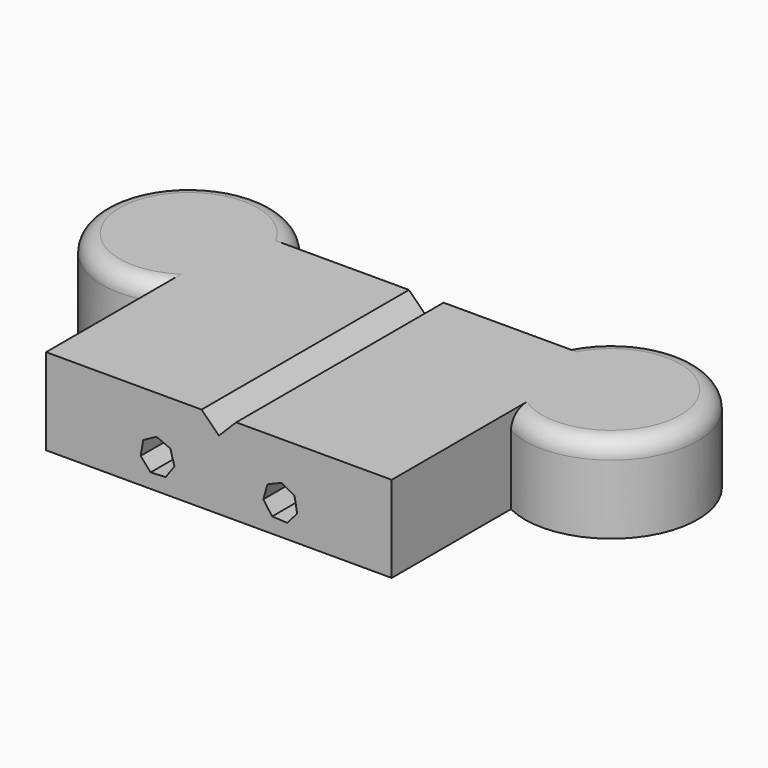
from build123d import *

# Parameters (mm, degrees)
F1_DEPTH = 25.4
F3_DEPTH = 76.2
F4_SIZE  = 5.08
F5_R     = 5.08


with BuildPart() as f1:
    # F0 (on Top) → F1 (new body)
    with BuildSketch(Plane.XY):
        with BuildLine():
            Line((-29.263646, -2.026047), (-29.263646, -45.816111))
            Line((-29.263646, -45.816111), (21.536354, -45.816111))
            Line((21.536354, -45.816111), (21.536354, 30.383889))
            Line((21.536354, 30.383889), (-17.080803, 30.383889))
            ThreePointArc((-17.080803, 30.383889), (-64.345783, 29.655996), (-29.263646, -2.026047))
        make_face()
    extrude(amount=F1_DEPTH)

    # F2 (on face) → F3 (cut)
    with BuildSketch(Plane(origin=(0, 30.383889, 0), x_dir=(-1, 0, 0), z_dir=(0, 1, 0))):
        Polygon((-1.464986, 4.272543), (1.464986, 7.590214), (0.697935, 11.949494), (-3.188536, 14.067755), (-7.267835, 12.349904), (-8.468165, 8.089517), (-5.885655, 4.494753), align=None)
    extrude(amount=-F3_DEPTH, mode=Mode.SUBTRACT)

    # F4
    f4_edges = [f1.edges().sort_by_distance(p)[0] for p in [
        (21.536354, -7.716111, 25.4),
    ]]
    chamfer(f4_edges, length=F4_SIZE)

    # F5
    f5_edges = [f1.edges().sort_by_distance(p)[0] for p in [
        (-64.345783, 29.655996, 25.4),
    ]]
    fillet(f5_edges, radius=F5_R)

    # F6: F1 across face


with BuildPart() as f1_1:
    add(f1.part)
    add(f1.part.mirror(Plane(origin=(21.536354, -7.716111, 10.16), x_dir=(0, 1, 0), z_dir=(1, 0, 0))))


solid = f1_1.part
